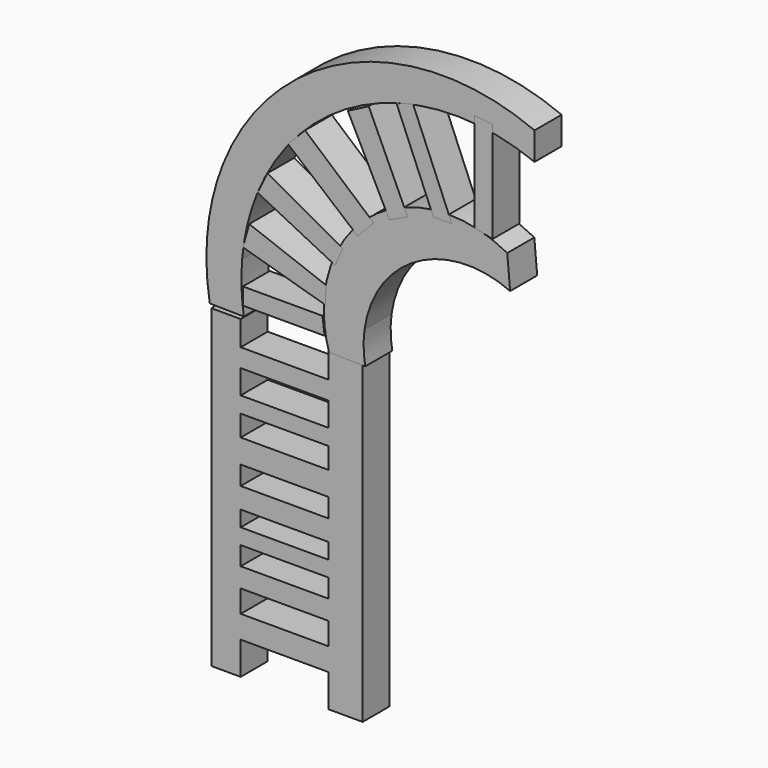
from build123d import *

# Parameters (mm, degrees)
F0_W     = 19.7499133646
F0_H     = 4.1402331553
F0_H_2   = 5.3616189398
F0_H_3   = 3.6131842062
F0_H_4   = 4.6723466367
F0_H_5   = 3.5303737968
F0_H_6   = 4.3972805142
F0_H_7   = 5.121588707
F1_DEPTH = 7.62
F3_DEPTH = 7.62
F5_DEPTH = 7.5565


with BuildPart() as f1:
    # F0 (on Front) → F1 (new body)
    with BuildSketch(Plane.XZ):
        with Locations((-56.3687663525, 8.5909834597)):
            Rectangle(F0_W, F0_H)
        Polygon((-66.2437230349, 16.2607766688), (-72.8681012988, 16.2607766688), (-72.8681012988, -54.7545775771), (-66.2437230349, -54.7545775771), (-66.2437230349, -51.4237135649), (-66.2437230349, -47.3692491651), (-66.2437230349, -42.2476604581), (-66.2437230349, -37.200499326), (-66.2437230349, -32.8032188118), (-66.2437230349, -28.6069251597), (-66.2437230349, -25.0765513629), (-66.2437230349, -21.5465798974), (-66.2437230349, -16.8742332608), (-66.2437230349, -12.6126082614), (-66.2437230349, -7.2509893216), (-66.2437230349, -2.5046177907), (-66.2437230349, 1.1085664155), (-66.2437230349, 6.5208668821), (-66.2437230349, 10.6611000374), align=None)
        Polygon((-46.4938096702, 16.2607766688), (-46.4938096702, 10.6611000374), (-46.4938096702, 6.5208668821), (-46.4938096702, 1.1085664155), (-46.4938096702, -2.5046177907), (-46.4938096702, -7.2509893216), (-46.4938096702, -12.6126082614), (-46.4938096702, -16.8742332608), (-46.4938096702, -21.5465798974), (-46.4938096702, -25.0765513629), (-46.4938096702, -28.6069251597), (-46.4938096702, -32.8032188118), (-46.4938096702, -37.200499326), (-46.4938096702, -42.2476604581), (-46.4938096702, -47.3692491651), (-46.4938096702, -51.4237135649), (-46.4938096702, -54.7545775771), (-38.75323385, -54.7545775771), (-38.75323385, 16.2060605315), align=None)
        with Locations((-56.3687663525, -9.9317987915)):
            Rectangle(F0_W, F0_H_2)
        with Locations((-56.3687663525, -0.6980256876)):
            Rectangle(F0_W, F0_H_3)
        with Locations((-56.3687663525, -19.2104065791)):
            Rectangle(F0_W, F0_H_4)
        with Locations((-56.3687663525, -26.8417382613)):
            Rectangle(F0_W, F0_H_5)
        with Locations((-56.3687663525, -35.0018590689)):
            Rectangle(F0_W, F0_H_6)
        with Locations((-56.3687663525, -44.8084548116)):
            Rectangle(F0_W, F0_H_7)
    extrude(amount=-F1_DEPTH)


with BuildPart() as f3:
    # F2 (on Front) → F3 (new body)
    with BuildSketch(Plane.XZ):
        with BuildLine():
            Line((-62.5437365724, 42.3459186364), (-70.2318590901, 45.7149749259))
            ThreePointArc((-70.2318590901, 45.7149749259), (-72.6403068231, 37.9456046034), (-73.8390220772, 29.9003067573))
            Line((-73.8390220772, 29.9003067573), (-65.9249098405, 28.2293552639))
            ThreePointArc((-65.9249098405, 28.2293552639), (-64.7684249363, 35.4155640131), (-62.5437365724, 42.3459186364))
        make_face()
        with BuildLine():
            Line((0, 68.9832940698), (0, 75.2493338258))
            ThreePointArc((0, 75.2493338258), (-41.3226643186, 75.2415917993), (-70.2318590901, 45.7149749259))
            Line((-70.2318590901, 45.7149749259), (-62.5437365724, 42.3459186364))
            ThreePointArc((-62.5437365724, 42.3459186364), (-36.7623252254, 68.5560300344), (0, 68.9832940698))
        make_face()
        with BuildLine():
            Line((-65.9249098405, 28.2293552639), (-73.8390220772, 29.9003067573))
            ThreePointArc((-73.8390220772, 29.9003067573), (-73.9116137916, 23.4781636582), (-73.2115656137, 17.0938763767))
            Line((-73.2115656137, 17.0938763767), (-65.5552223325, 16.9843509793))
            ThreePointArc((-65.5552223325, 16.9843509793), (-66.0690778908, 22.5960366247), (-65.9249098405, 28.2293552639))
        make_face()
    extrude(amount=-F3_DEPTH)


with BuildPart() as f3b:
    # F2 (on Front) → F3, piece 2 (new body)
    with BuildSketch(Plane.XZ):
        with BuildLine():
            Line((-38.3250617533, 23.2918610972), (-47.502199357, 23.2918610972))
            ThreePointArc((-47.502199357, 23.2918610972), (-47.1507315945, 19.6859497569), (-46.3375218112, 16.1553951219))
            Line((-46.3375218112, 16.1553951219), (-38.1738982421, 15.9859235735))
            ThreePointArc((-38.1738982421, 15.9859235735), (-38.5354828094, 19.6329747937), (-38.3250617533, 23.2918610972))
        make_face()
        with BuildLine():
            Line((-5.50289784, 41.5603978369), (-6.147863663, 48.9014534144))
            ThreePointArc((-6.147863663, 48.9014534144), (-34.2322336603, 48.0577974598), (-47.502199357, 23.2918610972))
            Line((-47.502199357, 23.2918610972), (-38.3250617533, 23.2918610972))
            ThreePointArc((-38.3250617533, 23.2918610972), (-26.4812919334, 40.6319901624), (-5.50289784, 41.5603978369))
        make_face()
    extrude(amount=-F3_DEPTH)


with BuildPart() as f5:
    # F4 (on Front) → F5 (new body)
    with BuildSketch(Plane.XZ):
        Polygon((-47.8079319, 22.8921640664), (-65.7432675362, 22.8921640664), (-65.7432675362, 19.0828908235), (-47.3317727447, 19.0828908235), align=None)
    extrude(amount=-F5_DEPTH)


with BuildPart() as f5b:
    # F4 (on Front) → F5, piece 2 (new body)
    with BuildSketch(Plane.XZ):
        Polygon((-47.0143333077, 29.2409546673), (-64.3147900701, 35.748463124), (-65.7432675362, 30.6694321334), (-47.1730530262, 25.2729598433), align=None)
    extrude(amount=-F5_DEPTH)


with BuildPart() as f5c:
    # F4 (on Front) → F5, piece 3 (new body)
    with BuildSketch(Plane.XZ):
        Polygon((-60.2338463068, 47.1303761005), (-62.4101497233, 42.5734147429), (-44.9509769678, 33.8438265026), (-43.2478673756, 37.7892069519), align=None)
    extrude(amount=-F5_DEPTH)


with BuildPart() as f5d:
    # F4 (on Front) → F5, piece 4 (new body)
    with BuildSketch(Plane.XZ):
        Polygon((-9.4558084384, 73.3607187867), (-13.531729579, 73.7794563174), (-13.531729579, 51.4859540419), (-9.4558084384, 50.612542735), align=None)
    extrude(amount=-F5_DEPTH)


with BuildPart() as f5e:
    # F4 (on Front) → F5, piece 5 (new body)
    with BuildSketch(Plane.XZ):
        Polygon((-22.8244807163, 50.6583079696), (-18.6562426388, 50.6583079696), (-27.3872411671, 71.539883226), (-31.1353038996, 70.534966886), align=None)
    extrude(amount=-F5_DEPTH)


with BuildPart() as f5f:
    # F4 (on Front) → F5, piece 6 (new body)
    with BuildSketch(Plane.XZ):
        Polygon((-37.3910926282, 67.8804144263), (-42.0940220356, 65.4290616512), (-32.7295549214, 46.8588471413), (-28.6028403789, 48.763487488), align=None)
    extrude(amount=-F5_DEPTH)


with BuildPart() as f5g:
    # F4 (on Front) → F5, piece 7 (new body)
    with BuildSketch(Plane.XZ):
        Polygon((-36.2620055676, 45.0874976814), (-51.7359450459, 58.4216453135), (-55.5852018297, 54.4773973525), (-39.8719459772, 41.3036569953), align=None)
    extrude(amount=-F5_DEPTH)


solid = Compound([f1.part, f3.part, f3b.part, f5.part, f5b.part, f5c.part, f5d.part, f5e.part, f5f.part, f5g.part])
